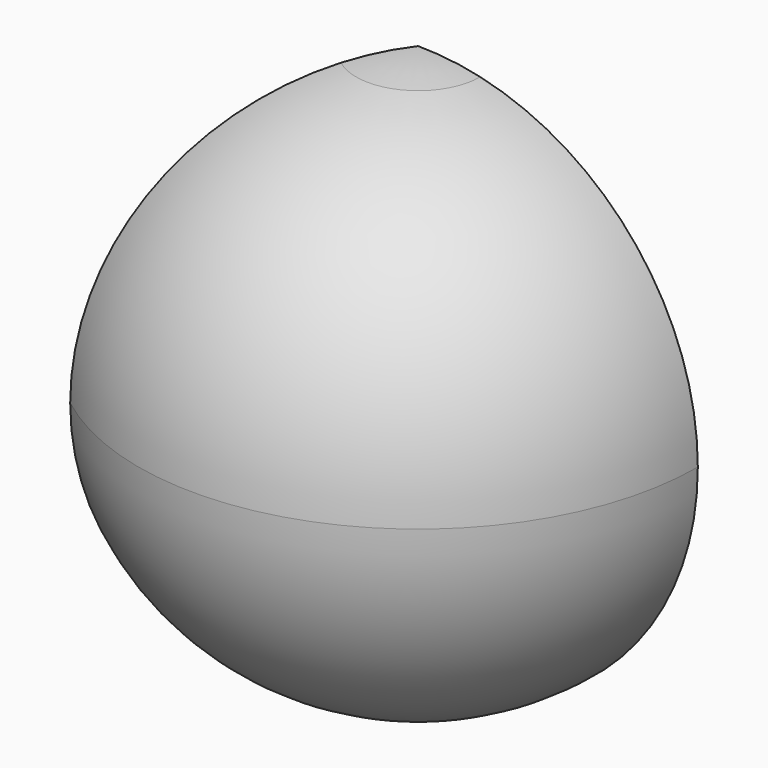
from build123d import *

# Parameters (mm, degrees)
F1_ANGLE = 127.6370568736
F2_R     = 2


with BuildPart() as f1:
    # F0 (on Front) → F1 (revolve)
    with BuildSketch(Plane.XZ):
        with BuildLine():
            ThreePointArc((4.9959747121, 21.9383280283), (2.5137242653, 22.3591410908), (0, 22.5))
            Line((0, 22.5), (0, 17.1344819252))
            ThreePointArc((0, 17.1344819252), (2.525573198, 16.9473287236), (4.9959747121, 16.3899575204))
            Line((4.9959747121, 16.3899575204), (4.9959747121, 21.9383280283))
        make_face()
        with BuildLine():
            ThreePointArc((4.9959747121, 16.3899575204), (2.525573198, 16.9473287236), (0, 17.1344819252))
            Line((0, 17.1344819252), (0, -17.1344819252))
            ThreePointArc((0, -17.1344819252), (2.525573198, -16.9473287236), (4.9959747121, -16.3899575204))
            Line((4.9959747121, -16.3899575204), (4.9959747121, 16.3899575204))
        make_face()
        with BuildLine():
            Line((0, -17.1344819252), (0, -22.5))
            ThreePointArc((0, -22.5), (2.5137242653, -22.3591410908), (4.9959747121, -21.9383280283))
            Line((4.9959747121, -21.9383280283), (4.9959747121, -16.3899575204))
            ThreePointArc((4.9959747121, -16.3899575204), (2.525573198, -16.9473287236), (0, -17.1344819252))
        make_face()
        with BuildLine():
            ThreePointArc((22.5, 0), (17.5877717608, 14.0328288128), (4.9959747121, 21.9383280283))
            Line((4.9959747121, 21.9383280283), (4.9959747121, 16.3899575204))
            ThreePointArc((4.9959747121, 16.3899575204), (13.7694209981, 10.1977211288), (17.1344819252, 0))
            ThreePointArc((17.1344819252, 0), (13.7694209981, -10.1977211288), (4.9959747121, -16.3899575204))
            Line((4.9959747121, -16.3899575204), (4.9959747121, -21.9383280283))
            ThreePointArc((4.9959747121, -21.9383280283), (17.5877717608, -14.0328288128), (22.5, 0))
        make_face()
    revolve(axis=Axis((0, 0, 0), (0, 0, -1)), revolution_arc=F1_ANGLE)

    # F2
    f2_edges = [f1.edges().sort_by_distance(p)[0] for p in [
        (-3.050829, -3.956287, 0),
        (4.995975, 0, 0),
    ]]
    fillet(f2_edges, radius=F2_R)


solid = f1.part
